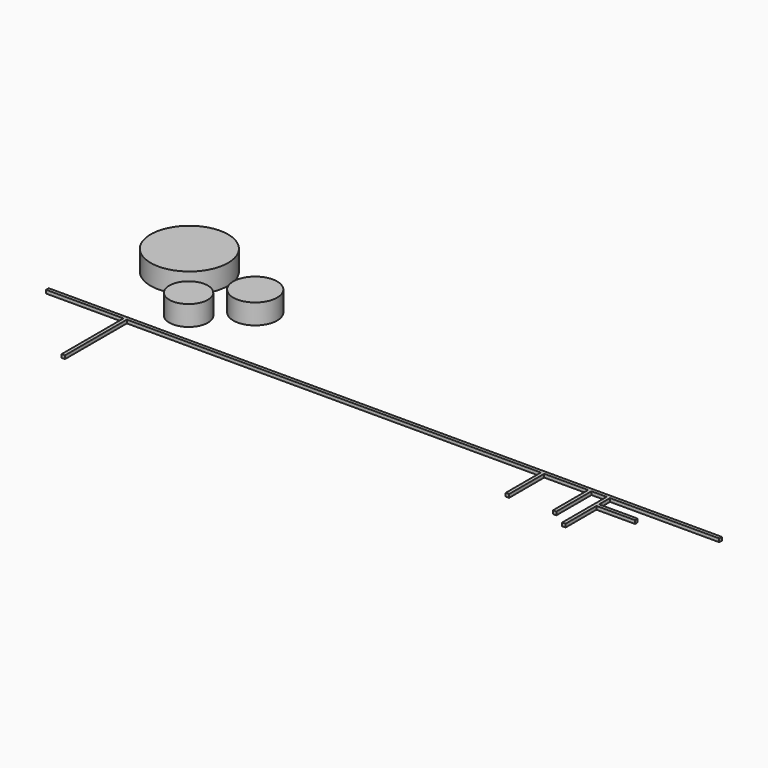
from build123d import *

# Parameters (mm, degrees)
F0_R     = 165.735
F1_DEPTH = 152.4
F2_R     = 145.542
F3_DEPTH = 152.4
F4_R     = 292.1
F5_DEPTH = 152.4
F6_W     = 25.4
F6_H     = 584.2
F6_W_2   = 291.084
F6_H_2   = 25.4
F6_H_3   = 331.47
F7_DEPTH = 25.4


with BuildPart() as f1:
    # F0 (on Top) → F1 (new body)
    with BuildSketch(Plane.XY):
        with Locations((406.808984, 0)):
            Circle(F0_R)
    extrude(amount=F1_DEPTH)


with BuildPart() as f3:
    # F2 (on Top) → F3 (new body)
    with BuildSketch(Plane.XY):
        with Locations((125.430375, -276.632994)):
            Circle(F2_R)
    extrude(amount=F3_DEPTH)


with BuildPart() as f5:
    # F4 (on Top) → F5 (new body)
    with BuildSketch(Plane.XY):
        with Locations((-222.069457, 165.091917)):
            Circle(F4_R)
    extrude(amount=F5_DEPTH)


with BuildPart() as f7:
    # F6 (on Top) → F7 (new body)
    with BuildSketch(Plane.XY):
        Polygon((4374.017683, -556.369407), (-705.982317, -556.369407), (-705.982317, -581.769407), (-121.782317, -581.769407), (-96.382317, -581.769407), (3027.817683, -581.769407), (3053.217683, -581.769407), (3384.687683, -581.769407), (3410.087683, -581.769407), (3524.387683, -581.769407), (3549.787683, -581.769407), (4374.017683, -581.769407), align=None)
        with Locations((-109.082317, -873.869407)):
            Rectangle(F6_W, F6_H)
        with Locations((3695.329683, -697.085407)):
            Rectangle(F6_W_2, F6_H_2)
        Polygon((3549.787683, -684.385407), (3549.787683, -581.769407), (3524.387683, -581.769407), (3524.387683, -1000.869407), (3549.787683, -1000.869407), (3549.787683, -709.785407), align=None)
        with Locations((3397.387683, -747.504407)):
            Rectangle(F6_W, F6_H_3)
        with Locations((3040.517683, -747.504407)):
            Rectangle(F6_W, F6_H_3)
    extrude(amount=F7_DEPTH)


solid = Compound([f1.part, f3.part, f5.part, f7.part])
